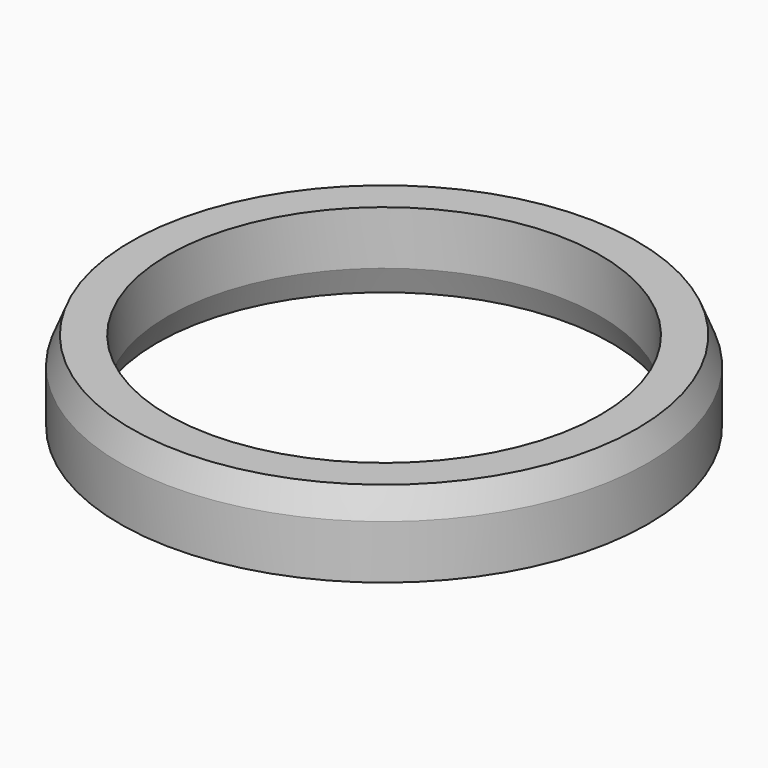
from build123d import *

# Parameters (mm, degrees)
F0_R     = 19.65
F1_DEPTH = 6
F2_R     = 16.1
F3_DEPTH = 25
F4_SIZE2 = 2
F4_SIZE  = 0.8
F5_SIZE2 = 2
F5_SIZE  = 0.8


with BuildPart() as f1:
    # F0 (on Top) → F1 (new body)
    with BuildSketch(Plane.XY):
        Circle(F0_R)
    extrude(amount=F1_DEPTH)

    # F2 (on face) → F3 (cut)
    with BuildSketch(Plane.XY.offset(6)):
        Circle(F2_R)
    extrude(amount=-F3_DEPTH, mode=Mode.SUBTRACT)

    # F4
    f4_edges = [f1.edges().sort_by_distance(p)[0] for p in [
        (-16.1, 0, 0),
    ]]
    chamfer(f4_edges, length=F4_SIZE, length2=F4_SIZE2)

    # F5
    f5_edges = [f1.edges().sort_by_distance(p)[0] for p in [
        (-19.65, 0, 6),
    ]]
    f5_side = f1.faces().sort_by_distance((-19.094214, 0, 6))[0]
    chamfer(f5_edges, length=F5_SIZE, length2=F5_SIZE2, reference=f5_side)


solid = f1.part
